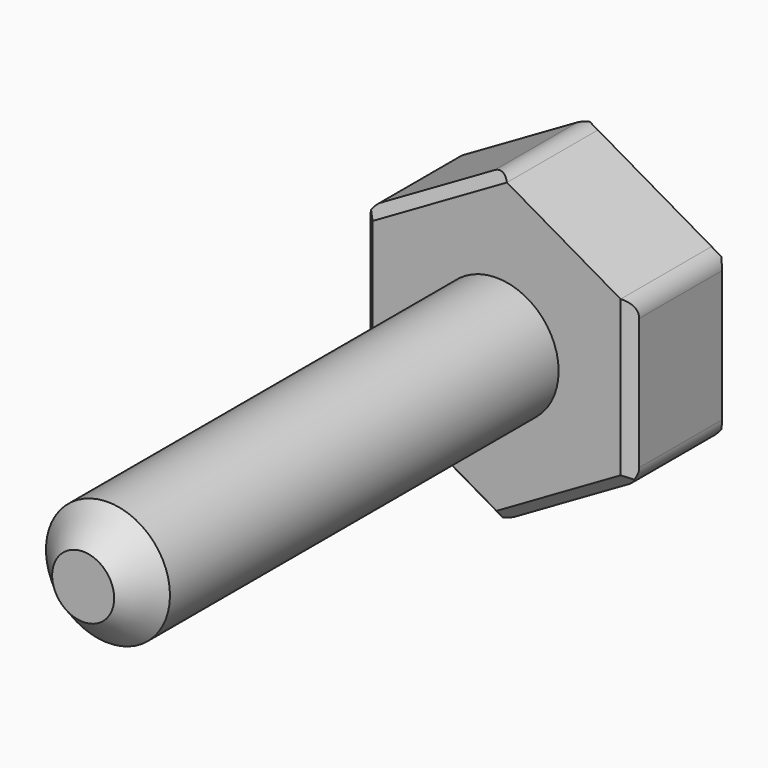
from build123d import *

# Parameters (mm, degrees)
F0_R     = 4
F1_DEPTH = 6
F3_SIZE  = 0.5
F4_R     = 1
F2_R     = 3
F5_DEPTH = 25
F6_SIZE  = 1.5


with BuildPart() as f1:
    # F0 (on Front) → F1 (new body)
    with BuildSketch(Plane.XZ):
        Polygon((0, 7.5055534995), (-6.5, 3.7527767497), (-6.5, -3.7527767497), (0, -7.5055534995), (6.5, -3.7527767497), (6.5, 3.7527767497), align=None)
        Circle(F0_R, mode=Mode.SUBTRACT)
        Circle(F0_R)
    extrude(amount=-F1_DEPTH)

    # F3
    f3_edges = [f1.edges().sort_by_distance(p)[0] for p in [
        (6.5, 0, 0),
        (-3.25, 0, 5.629165),
        (-6.5, 0, 0),
        (-3.25, 0, -5.629165),
        (3.25, 0, -5.629165),
        (-3.25, 6, 5.629165),
        (-6.5, 6, 0),
        (-3.25, 6, -5.629165),
        (3.25, 6, -5.629165),
        (6.5, 6, 0),
        (3.25, 6, 5.629165),
    ]]
    chamfer(f3_edges, length=F3_SIZE)

    # F4
    f4_edges = [f1.edges().sort_by_distance(p)[0] for p in [
        (0, 3, 7.505553),
        (-6.5, 3, 3.752777),
        (6.5, 3, 3.752777),
        (-6.5, 3, -3.752777),
        (0, 3, -7.505553),
        (6.5, 3, -3.752777),
    ]]
    fillet(f4_edges, radius=F4_R)

    # F2 (on face) → F5 (join)
    with BuildSketch(Plane.XZ):
        Circle(F2_R)
    extrude(amount=F5_DEPTH)

    # F6
    f6_edges = [f1.edges().sort_by_distance(p)[0] for p in [
        (-3, -25, 0),
    ]]
    chamfer(f6_edges, length=F6_SIZE)


solid = f1.part
